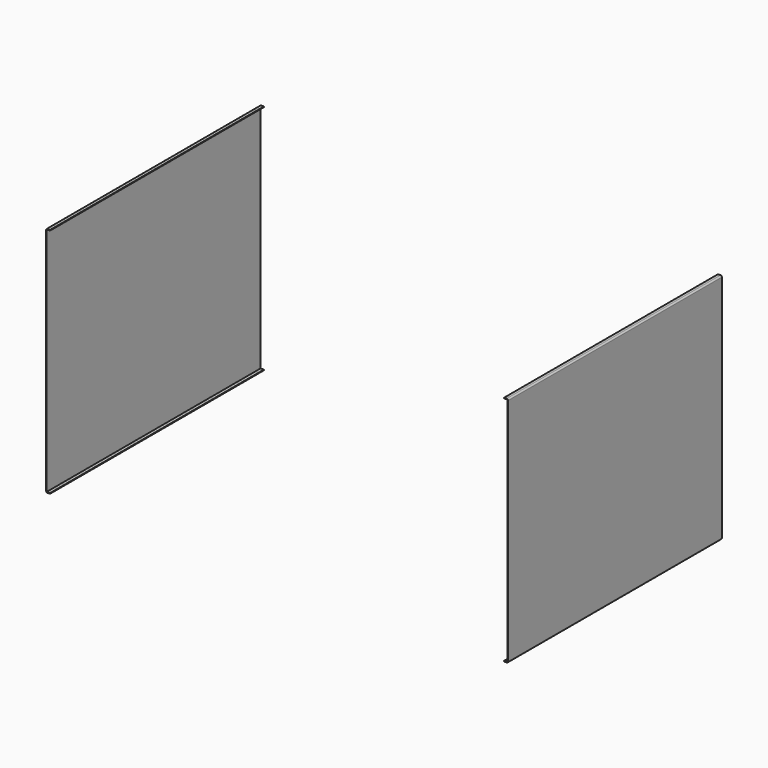
from build123d import *

# Parameters (mm, degrees)
F1_DEPTH = 405


with BuildPart() as f1:
    # F0 (on Front) → F1 (new body, symmetric)
    with BuildSketch(Plane.XZ):
        with BuildLine():
            Line((696, 318.400318), (688, 318.400318))
            Line((688, 318.400318), (688, 316.400318))
            Line((688, 316.400318), (698, 316.400318))
            Line((698, 316.400318), (698, -383.599682))
            Line((698, -383.599682), (688, -383.599682))
            Line((688, -383.599682), (688, -385.599682))
            Line((688, -385.599682), (696, -385.599682))
            ThreePointArc((696, -385.599682), (698.828427, -384.428109), (700, -381.599682))
            Line((700, -381.599682), (700, 314.400318))
            ThreePointArc((700, 314.400318), (698.828427, 317.228745), (696, 318.400318))
        make_face()
    extrude(amount=F1_DEPTH, both=True)


with BuildPart() as f2_1:
    # F2: instance of F1
    add(f1.part.mirror(Plane.YZ))


solid = Compound([f1.part, f2_1.part])
